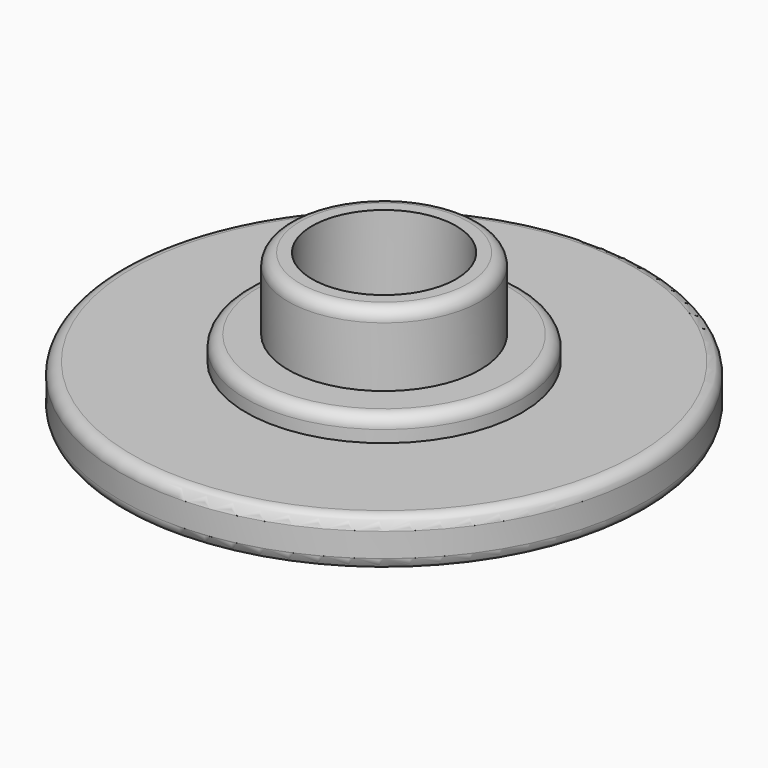
from build123d import *

# Parameters (mm, degrees)
F0_R     = 11
F0_R_2   = 5.75
F0_R_3   = 4
F0_R_4   = 3
F1_DEPTH = 2
F2_DEPTH = 3
F3_DEPTH = 6
F4_R     = 0.5


with BuildPart() as f1:
    # F0 (on Top) → F1 (new body)
    with BuildSketch(Plane.XY):
        Circle(F0_R)
        Circle(F0_R_2, mode=Mode.SUBTRACT)
        Circle(F0_R_2)
        Circle(F0_R_3, mode=Mode.SUBTRACT)
        Circle(F0_R_3)
        Circle(F0_R_4, mode=Mode.SUBTRACT)
        Circle(F0_R_4)
    extrude(amount=F1_DEPTH)

    # F0 (on Top) → F2 (join)
    with BuildSketch(Plane.XY):
        Circle(F0_R_2)
        Circle(F0_R_3, mode=Mode.SUBTRACT)
    extrude(amount=F2_DEPTH)

    # F0 (on Top) → F3 (join)
    with BuildSketch(Plane.XY):
        Circle(F0_R_3)
        Circle(F0_R_4, mode=Mode.SUBTRACT)
    extrude(amount=F3_DEPTH)

    # F4
    f4_edges = [f1.edges().sort_by_distance(p)[0] for p in [
        (-4, 0, 6),
        (-5.75, 0, 3),
        (-11, 0, 2),
        (-11, 0, 0),
    ]]
    fillet(f4_edges, radius=F4_R)


solid = f1.part
